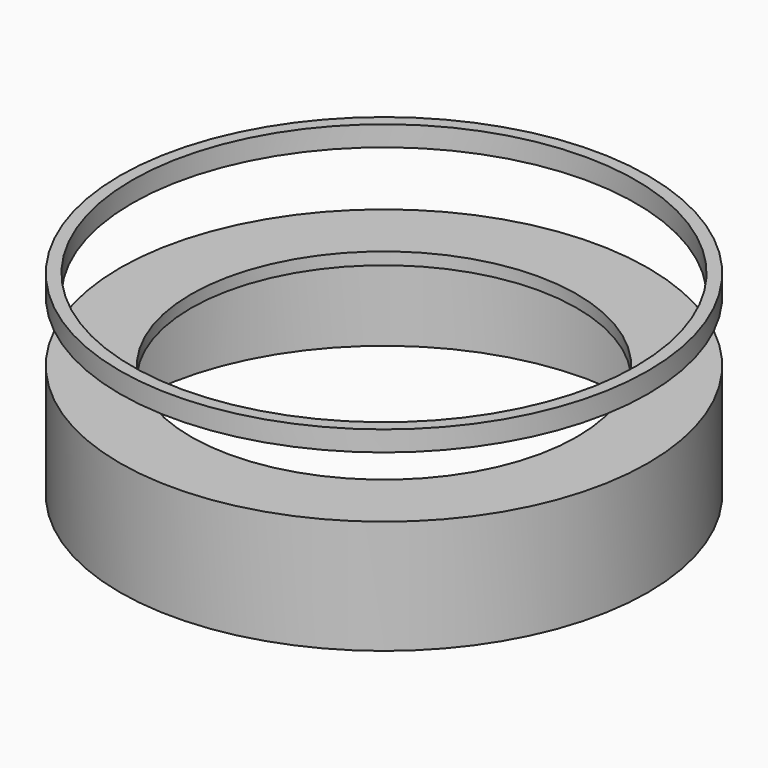
from build123d import *

# Parameters (mm, degrees)
F0_W = 3
F0_H = 5


with BuildPart() as f1:
    # F0 (on Front) → F1 (revolve)
    with BuildSketch(Plane.XZ):
        Polygon((65, 28), (47.5, 28), (47.5, 25), (62, 25), (62, 0), (65, 0), align=None)
        with Locations((63.5, 45.5)):
            Rectangle(F0_W, F0_H)
    revolve(axis=Axis((0, 0, 11.225136), (0, 0, -1)))


solid = f1.part
